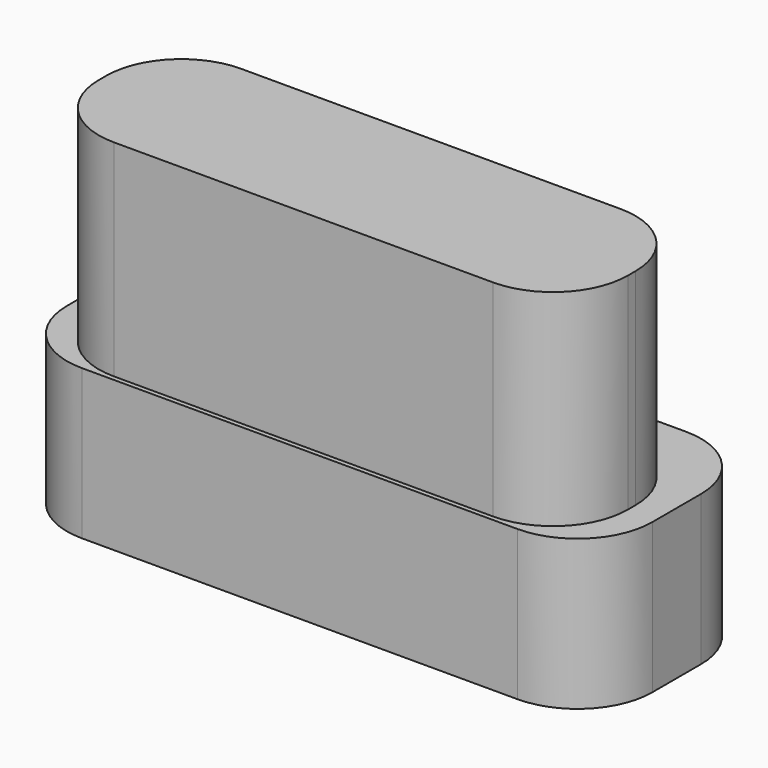
from build123d import *

# Parameters (mm, degrees)
F0_W     = 5.65
F0_H     = 1.7
F1_DEPTH = 2.2
F0_W_2   = 6.25
F0_H_2   = 2.25
F2_DEPTH = 1.6
F3_R     = 0.8


with BuildPart() as f1:
    # F0 (on Top) → F1 (new body)
    with BuildSketch(Plane.XY):
        with Locations((0, -0.225)):
            Rectangle(F0_W, F0_H)
    extrude(amount=F1_DEPTH)

    # F0 (on Top) → F2 (join)
    with BuildSketch(Plane.XY):
        Rectangle(F0_W_2, F0_H_2)
        with Locations((0, -0.225)):
            Rectangle(F0_W, F0_H, mode=Mode.SUBTRACT)
        with Locations((0, -0.225)):
            Rectangle(F0_W, F0_H)
    extrude(amount=-F2_DEPTH)

    # F3
    f3_edges = [f1.edges().sort_by_distance(p)[0] for p in [
        (3.125, 1.125, -0.8),
        (-3.125, 1.125, -0.8),
        (2.825, 0.625, 1.1),
        (-2.825, 0.625, 1.1),
        (3.125, -1.125, -0.8),
        (-3.125, -1.125, -0.8),
        (-2.825, -1.075, 1.1),
        (2.825, -1.075, 1.1),
    ]]
    fillet(f3_edges, radius=F3_R)


solid = f1.part
